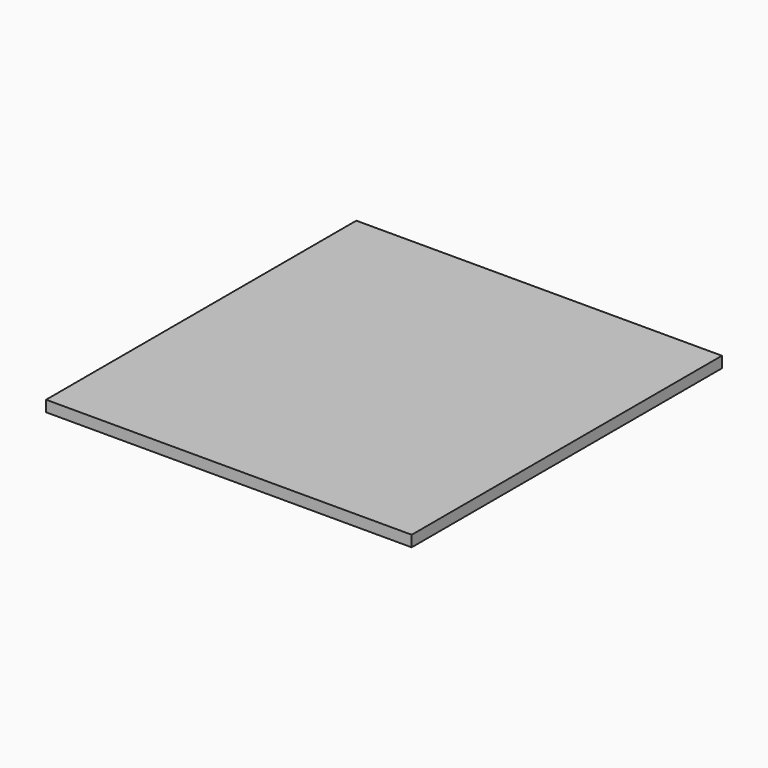
from build123d import *

# Parameters (mm, degrees)
F0_W      = 330
F0_H      = 350
F1_DEPTH  = 10
F1_FACE_W = 330
F1_FACE_H = 350
F2_DEPTH  = 2
F2_FACE_W = 330
F2_FACE_H = 350
F3_DEPTH  = 2


with BuildPart() as f1:
    # F0 (on Top) → F1 (new body)
    with BuildSketch(Plane.XY):
        with Locations((94.038462, -109.95281)):
            Rectangle(F0_W, F0_H)
    extrude(amount=F1_DEPTH)

    # F1_face (on face) → F2 (join)
    with BuildSketch(Plane(origin=(94.038462, -109.95281, 0), x_dir=(1, 0, 0), z_dir=(0, 0, -1))):
        Rectangle(F1_FACE_W, F1_FACE_H)
    extrude(amount=F2_DEPTH)

    # F2_face (on face) → F3 (cut)
    with BuildSketch(Plane(origin=(94.038462, -109.95281, -2), x_dir=(1, 0, 0), z_dir=(0, 0, -1))):
        Rectangle(F2_FACE_W, F2_FACE_H)
    extrude(amount=-F3_DEPTH, mode=Mode.SUBTRACT)


solid = f1.part
